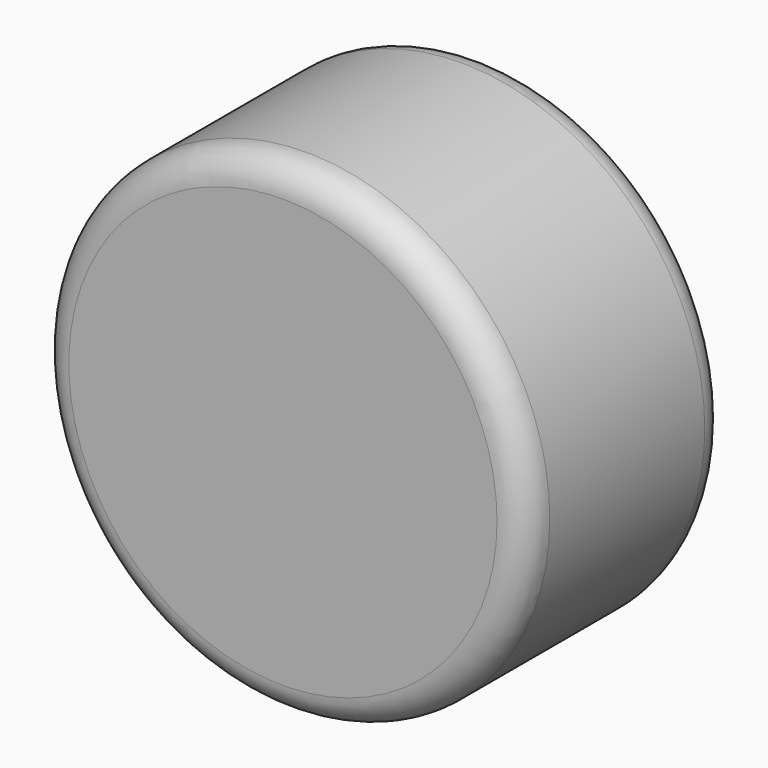
from build123d import *

# Parameters (mm, degrees)
F0_R     = 84.46775
F1_DEPTH = 87.570764
F2_R     = 10.16
F4_DEPTH = 35.56


with BuildPart() as f1:
    # F0 (on Front) → F1 (new body)
    with BuildSketch(Plane.XZ):
        Circle(F0_R)
    extrude(amount=F1_DEPTH)

    # F2
    f2_edges = [f1.edges().sort_by_distance(p)[0] for p in [
        (-84.46775, -87.570764, 0),
        (-84.46775, 0, 0),
    ]]
    fillet(f2_edges, radius=F2_R)

    # F3 (on face) → F4 (cut)
    with BuildSketch(Plane(origin=(0, 0, 0), x_dir=(-1, 0, 0), z_dir=(0, 1, 0))):
        Polygon((29.785042, 51.589206), (-29.785042, 51.589206), (-59.570084, 0), (-29.785042, -51.589206), (29.785042, -51.589206), (59.570084, 0), align=None)
    extrude(amount=-F4_DEPTH, mode=Mode.SUBTRACT)


solid = f1.part
